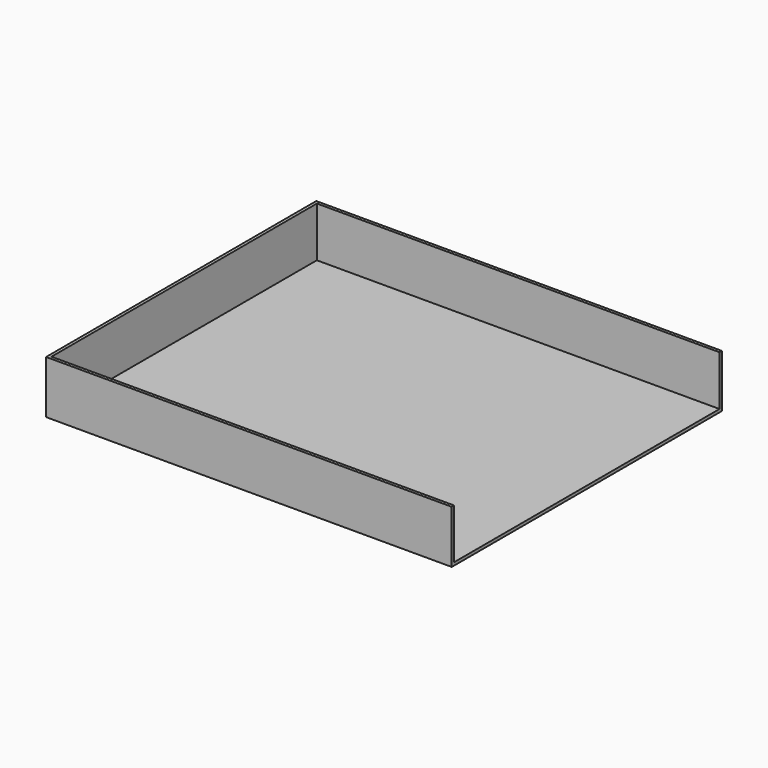
from build123d import *

# Parameters (mm, degrees)
F0_W     = 203
F0_H     = 169
F1_DEPTH = 1.5
F2_W     = 201.5
F2_H     = 1.5
F3_DEPTH = 25


with BuildPart() as f1:
    # F0 (on Top) → F1 (new body)
    with BuildSketch(Plane.XY):
        with Locations((101.5, 84.5)):
            Rectangle(F0_W, F0_H)
    extrude(amount=F1_DEPTH)

    # F2 (on face) → F3 (join)
    with BuildSketch(Plane.XY.offset(1.5)):
        Polygon((1.5, 169), (0, 169), (0, 0), (1.5, 0), (1.5, 1.5), (1.5, 167.5), align=None)
        with Locations((102.25, 0.75)):
            Rectangle(F2_W, F2_H)
        with Locations((102.25, 168.25)):
            Rectangle(F2_W, F2_H)
    extrude(amount=F3_DEPTH)


solid = f1.part
